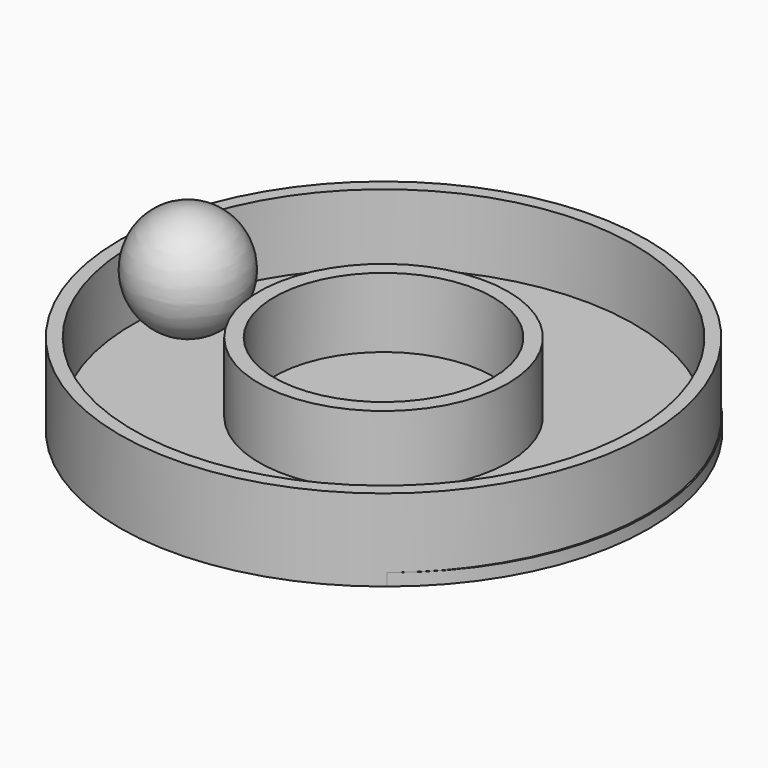
from build123d import *

# Parameters (mm, degrees)
F0_R     = 87.4452884711
F0_R_2   = 83.0694263733
F1_DEPTH = 27.178
F0_R_3   = 41.257298761
F0_R_4   = 36.2128184315
F2_R     = 86.4276437555
F3_DEPTH = 4.064


with BuildPart() as f1:
    # F0 (on Top) → F1 (new body)
    with BuildSketch(Plane.XY):
        with Locations((-61.8732869625, 0)):
            Circle(F0_R)
        with Locations((-61.8732869625, 0)):
            Circle(F0_R_2, mode=Mode.SUBTRACT)
    extrude(amount=F1_DEPTH)


with BuildPart() as f1b:
    # F0 (on Top) → F1, piece 2 (new body)
    with BuildSketch(Plane.XY):
        with Locations((-61.8732869625, 0)):
            Circle(F0_R_3)
        with Locations((-61.8732869625, 0)):
            Circle(F0_R_4, mode=Mode.SUBTRACT)
    extrude(amount=F1_DEPTH)


with BuildPart() as f3:
    # F2 (on Top) → F3 (new body)
    with BuildSketch(Plane.XY):
        with Locations((-60.2897703648, 0)):
            Circle(F2_R)
    extrude(amount=F3_DEPTH)


with BuildPart() as f5:
    # F4 (on Front) → F5 (revolve)
    with BuildSketch(Plane.XZ):
        with BuildLine():
            Line((-126.6610473394, 7.6564298943), (-126.8829703331, 44.2741364241))
            ThreePointArc((-126.8829703331, 44.2741364241), (-144.6893060471, 25.8566947026), (-126.6610473394, 7.6564298943))
        make_face()
    revolve(axis=Axis((-126.7720088363, 0, 25.9652831592), (0.0060604265, 0, -0.9999816354)))


solid = Compound([f1.part, f1b.part, f3.part, f5.part])
